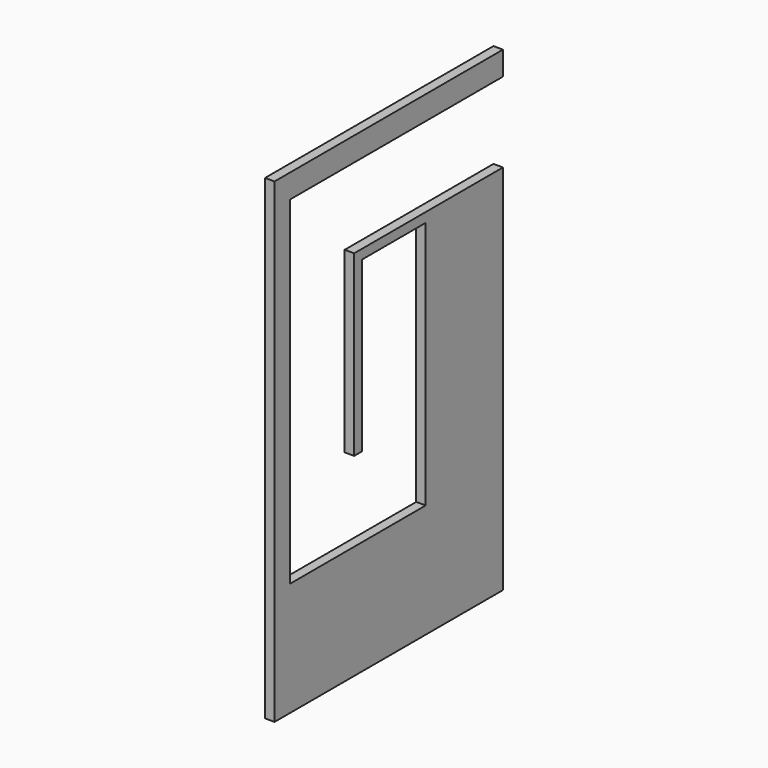
from build123d import *

# Parameters (mm, degrees)
F1_DEPTH = 2.5


with BuildPart() as f1:
    # F0 (on Right) → F1 (new body)
    with BuildSketch(Plane.YZ):
        Polygon((0, 125), (0, 0), (3.81, 0), (3.81, 3.81), (3.81, 121.19), (44.505585, 121.19), (71.19, 121.19), (71.19, 125), align=None)
        Polygon((3.81, 3.81), (3.81, 0), (40.814199, 0), (64.98988, 0), (71.19, 0), (71.19, 3.81), (64.98988, 3.81), (40.814199, 3.81), (8.89, 3.81), align=None)
        Polygon((75, 125), (71.19, 125), (71.19, 121.19), (71.19, 118.75), (75, 118.75), align=None)
        Polygon((3.81, 121.19), (3.81, 3.81), (8.89, 3.81), (40.814199, 3.81), (64.98988, 3.81), (71.19, 3.81), (71.19, 97.75), (26.145, 97.75), (26.145, 95.25), (28.645, 95.25), (49.645, 95.25), (49.645, 71.456), (49.645, 29.89), (5.145, 29.89), (5.145, 118.75), (71.19, 118.75), (71.19, 121.19), (44.505585, 121.19), align=None)
        Polygon((71.19, 3.81), (71.19, 0), (75, 0), (75, 97.75), (71.19, 97.75), align=None)
        Polygon((28.645, 95.25), (26.145, 95.25), (26.145, 50.89), (28.645, 50.89), (28.645, 71.456), align=None)
    extrude(amount=F1_DEPTH)


solid = f1.part
